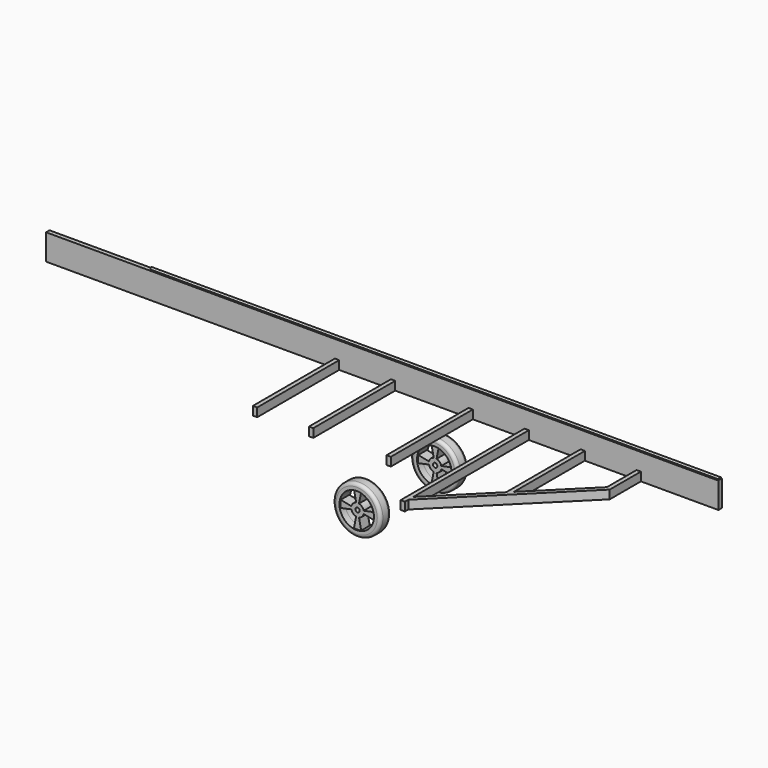
from build123d import *

# Parameters (mm, degrees)
F1_DEPTH = 304.8
F0_W     = 50.8
F0_H     = 1207.3322428613
F2_DEPTH = 101.6
F3_R     = 12.7
F4_DEPTH = 6705.6
F6_R     = 279.4
F7_DEPTH = 76.2
F8_R     = 36.7926146906
F6_R_2   = 25.4
F9_DEPTH = 63.5


with BuildPart() as f1:
    # F0 (on Top) → F1 (new body)
    with BuildSketch(Plane.XY):
        Polygon((2959.9124378204, 1033.9674098969), (-4964.8875621796, 1033.9674098968), (-4964.8875621796, 983.1674098968), (-4660.0875621796, 983.1674098968), (-4202.8875621796, 983.1674098968), (-3898.0875621796, 983.1674098968), (-3491.6875621796, 983.1674098968), (-1561.2875621796, 983.1674098968), (-1510.4875621796, 983.1674098968), (-900.8875621796, 983.1674098968), (-850.0875621796, 983.1674098968), (13.5124378204, 983.1674098969), (64.3124378204, 983.1674098969), (673.9124378204, 983.1674098969), (724.7124378204, 983.1674098969), (1334.3124378204, 983.1674098969), (1385.1124378204, 983.1674098969), (1468.616296829, 983.1674098969), (1544.816296829, 983.1674098969), (1994.7124378204, 983.1674098969), (2045.5124378204, 983.1674098969), (2959.9124378204, 983.1674098969), align=None)
    extrude(amount=F1_DEPTH)

    # F0 (on Top) → F2 (join)
    with BuildSketch(Plane.XY):
        Polygon((2045.5124378204, 524.2571219418), (2045.5124378204, 983.1674098969), (1994.7124378204, 983.1674098969), (1994.7124378204, 545.3622928389), (1385.1124378204, -61.6581682041), (1334.3124378204, -112.2432066244), (724.7124378204, -719.2636676675), (724.7124378204, -790.9538769849), align=None)
        Polygon((1334.3124378204, -112.2432066244), (1385.1124378204, -61.6581682041), (1385.1124378204, 983.1674098969), (1334.3124378204, 983.1674098969), align=None)
        Polygon((724.7124378204, -842.1269621186), (724.7124378204, -790.9538769849), (724.7124378204, -719.2636676675), (724.7124378204, 983.1674098969), (673.9124378204, 983.1674098969), (673.9124378204, -842.1269621186), align=None)
        with Locations((38.9124378204, 379.5012884662)):
            Rectangle(F0_W, F0_H)
        with Locations((-875.4875621796, 379.5012884662)):
            Rectangle(F0_W, F0_H)
        with Locations((-1535.8875621796, 379.5012884662)):
            Rectangle(F0_W, F0_H)
    extrude(amount=F2_DEPTH)

    # F3 (on face) → F4 (join)
    with BuildSketch(Plane.YZ.offset(2959.9124378204)):
        with Locations((1008.5674098969, 317.5)):
            Circle(F3_R)
    extrude(amount=-F4_DEPTH)


with BuildPart() as f7:
    # F6 (on offset) → F7 (new body, symmetric)
    with BuildSketch(Plane.XZ.offset(571.5)):
        with Locations((0.7153825136, -304.8)):
            Circle(F6_R)
        with BuildLine():
            ThreePointArc((199.4753600063, -262.5541558601), (202.8023284385, -283.5607371423), (203.9153825136, -304.8))
            ThreePointArc((203.9153825136, -304.8), (202.8023284385, -326.0392628577), (199.4753600063, -347.0458441399))
            ThreePointArc((199.4753600063, -347.0458441399), (144.3994804507, -448.4840979371), (42.9612266535, -503.5599774927))
            ThreePointArc((42.9612266535, -503.5599774927), (0.7153825136, -508), (-41.5304616264, -503.5599774927))
            ThreePointArc((-41.5304616264, -503.5599774927), (-142.9687154235, -448.4840979371), (-198.0445949791, -347.0458441399))
            ThreePointArc((-198.0445949791, -347.0458441399), (-202.4846174864, -304.8), (-198.0445949791, -262.5541558601))
            ThreePointArc((-198.0445949791, -262.5541558601), (-142.9687154235, -161.1159020629), (-41.5304616264, -106.0400225073))
            ThreePointArc((-41.5304616264, -106.0400225073), (0.7153825136, -101.6), (42.9612266535, -106.0400225073))
            ThreePointArc((42.9612266535, -106.0400225073), (144.3994804507, -161.1159020629), (199.4753600063, -262.5541558601))
        make_face(mode=Mode.SUBTRACT)
    extrude(amount=F7_DEPTH, both=True)

    # F8
    f8_edges = [f7.edges().sort_by_distance(p)[0] for p in [
        (-278.684617, -647.7, -304.8),
        (-278.684617, -495.3, -304.8),
    ]]
    fillet(f8_edges, radius=F8_R)


with BuildPart() as f9:
    # F6 (on offset) → F9 (new body, symmetric)
    with BuildSketch(Plane.XZ.offset(571.5)):
        with BuildLine():
            Line((17.3726308944, -232.4758021782), (42.9612266535, -106.0400225073))
            ThreePointArc((42.9612266535, -106.0400225073), (0.7153825136, -101.6), (-41.5304616264, -106.0400225073))
            Line((-41.5304616264, -106.0400225073), (-15.9418658672, -232.4758021782))
            ThreePointArc((-15.9418658672, -232.4758021782), (0.7153825136, -230.582390808), (17.3726308944, -232.4758021782))
        make_face()
        with BuildLine():
            ThreePointArc((199.4753600063, -347.0458441399), (202.8023284385, -326.0392628577), (203.9153825136, -304.8))
            ThreePointArc((203.9153825136, -304.8), (202.8023284385, -283.5607371423), (199.4753600063, -262.5541558601))
            Line((199.4753600063, -262.5541558601), (73.0395803353, -288.1427516192))
            ThreePointArc((73.0395803353, -288.1427516192), (74.4581196585, -296.4177429913), (74.9329917056, -304.8))
            ThreePointArc((74.9329917056, -304.8), (74.4581196585, -313.1822570087), (73.0395803353, -321.4572483808))
            Line((73.0395803353, -321.4572483808), (199.4753600063, -347.0458441399))
        make_face()
        with BuildLine():
            Line((-71.6088153082, -288.1427516192), (-198.0445949791, -262.5541558601))
            ThreePointArc((-198.0445949791, -262.5541558601), (-202.4846174864, -304.8), (-198.0445949791, -347.0458441399))
            Line((-198.0445949791, -347.0458441399), (-71.6088153082, -321.4572483808))
            ThreePointArc((-71.6088153082, -321.4572483808), (-73.5022266784, -304.8), (-71.6088153082, -288.1427516192))
        make_face()
        with BuildLine():
            ThreePointArc((-41.5304616264, -503.5599774927), (0.7153825136, -508), (42.9612266535, -503.5599774927))
            Line((42.9612266535, -503.5599774927), (17.3726308944, -377.1241978218))
            ThreePointArc((17.3726308944, -377.1241978218), (0.7153825136, -379.017609192), (-15.9418658672, -377.1241978218))
            Line((-15.9418658672, -377.1241978218), (-41.5304616264, -503.5599774927))
        make_face()
        with BuildLine():
            ThreePointArc((74.9329917056, -304.8), (74.4581196585, -296.4177429913), (73.0395803353, -288.1427516192))
            ThreePointArc((73.0395803353, -288.1427516192), (53.1951572567, -252.3202252569), (17.3726308944, -232.4758021782))
            ThreePointArc((17.3726308944, -232.4758021782), (0.7153825136, -230.582390808), (-15.9418658672, -232.4758021782))
            ThreePointArc((-15.9418658672, -232.4758021782), (-51.7643922295, -252.3202252569), (-71.6088153082, -288.1427516192))
            ThreePointArc((-71.6088153082, -288.1427516192), (-73.5022266784, -304.8), (-71.6088153082, -321.4572483808))
            ThreePointArc((-71.6088153082, -321.4572483808), (-51.7643922295, -357.2797747431), (-15.9418658672, -377.1241978218))
            ThreePointArc((-15.9418658672, -377.1241978218), (0.7153825136, -379.017609192), (17.3726308944, -377.1241978218))
            ThreePointArc((17.3726308944, -377.1241978218), (53.1951572567, -357.2797747431), (73.0395803353, -321.4572483808))
            ThreePointArc((73.0395803353, -321.4572483808), (74.4581196585, -313.1822570087), (74.9329917056, -304.8))
        make_face()
        with Locations((0.7153825136, -304.8)):
            Circle(F6_R_2, mode=Mode.SUBTRACT)
    extrude(amount=F9_DEPTH, both=True)


with BuildPart() as f10_1:
    # F10: instance of F9
    add(f9.part.mirror(Plane.XZ))


with BuildPart() as f10_2:
    # F10: instance of F7
    add(f7.part.mirror(Plane.XZ))


solid = Compound([f1.part, f7.part, f9.part, f10_1.part, f10_2.part])
